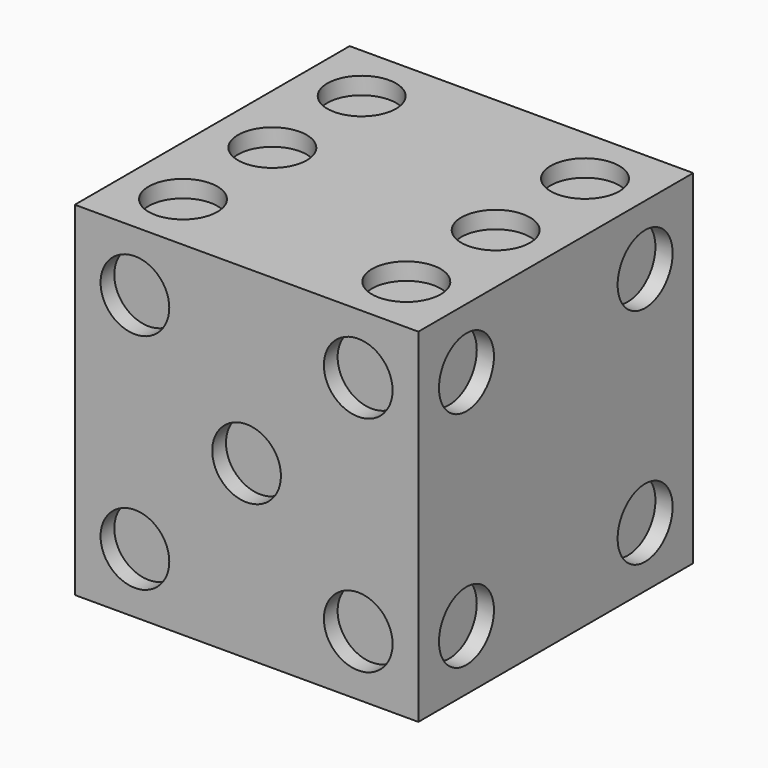
from build123d import *

# Parameters (mm, degrees)
F0_W      = 127
F0_H      = 127
F1_DEPTH  = 127
F2_R      = 12.7
F3_DEPTH  = 6.35
F4_R      = 12.7
F5_DEPTH  = 6.35
F6_R      = 12.7
F7_DEPTH  = 6.35
F8_R      = 12.7
F9_DEPTH  = 6.35
F10_R     = 12.7
F11_DEPTH = 6.35
F12_R     = 12.7
F13_DEPTH = 6.35


with BuildPart() as f1:
    # F0 (on Top) → F1 (new body)
    with BuildSketch(Plane.XY):
        with Locations((63.5, 63.5)):
            Rectangle(F0_W, F0_H)
    extrude(amount=F1_DEPTH)

    # F2 (on face) → F3 (cut)
    with BuildSketch(Plane(origin=(0, 127, 0), x_dir=(-1, 0, 0), z_dir=(0, 1, 0))):
        with Locations((-63.5, 63.5)):
            Circle(F2_R)
    extrude(amount=-F3_DEPTH, mode=Mode.SUBTRACT)

    # F4 (on face) → F5 (cut)
    with BuildSketch(Plane(origin=(0, 0, 0), x_dir=(1, 0, 0), z_dir=(0, 0, -1))):
        with Locations((104.775, -22.225)):
            Circle(F4_R)
        with Locations((22.225, -104.775)):
            Circle(F4_R)
    extrude(amount=-F5_DEPTH, mode=Mode.SUBTRACT)

    # F6 (on face) → F7 (cut)
    with BuildSketch(Plane(origin=(0, 0, 0), x_dir=(0, -1, 0), z_dir=(-1, 0, 0))):
        with Locations((-22.225, 22.225)):
            Circle(F6_R)
        with Locations((-63.5, 63.5)):
            Circle(F6_R)
        with Locations((-104.775, 104.775)):
            Circle(F6_R)
    extrude(amount=-F7_DEPTH, mode=Mode.SUBTRACT)

    # F8 (on face) → F9 (cut)
    with BuildSketch(Plane.YZ.offset(127)):
        with Locations((22.225, 22.225)):
            Circle(F8_R)
        with Locations((104.775, 22.225)):
            Circle(F8_R)
        with Locations((22.225, 104.775)):
            Circle(F8_R)
        with Locations((104.775, 104.775)):
            Circle(F8_R)
    extrude(amount=-F9_DEPTH, mode=Mode.SUBTRACT)

    # F10 (on face) → F11 (cut)
    with BuildSketch(Plane.XZ):
        with Locations((63.5, 63.5)):
            Circle(F10_R)
        with Locations((22.225, 104.775)):
            Circle(F10_R)
        with Locations((22.225, 22.225)):
            Circle(F10_R)
        with Locations((104.775, 104.775)):
            Circle(F10_R)
        with Locations((104.775, 22.225)):
            Circle(F10_R)
    extrude(amount=-F11_DEPTH, mode=Mode.SUBTRACT)

    # F12 (on face) → F13 (cut)
    with BuildSketch(Plane.XY.offset(127)):
        with Locations((104.775, 63.5)):
            Circle(F12_R)
        with Locations((104.775, 22.225)):
            Circle(F12_R)
        with Locations((104.775, 104.775)):
            Circle(F12_R)
        with Locations((22.225, 22.225)):
            Circle(F12_R)
        with Locations((22.225, 63.5)):
            Circle(F12_R)
        with Locations((22.225, 104.775)):
            Circle(F12_R)
    extrude(amount=-F13_DEPTH, mode=Mode.SUBTRACT)


solid = f1.part
